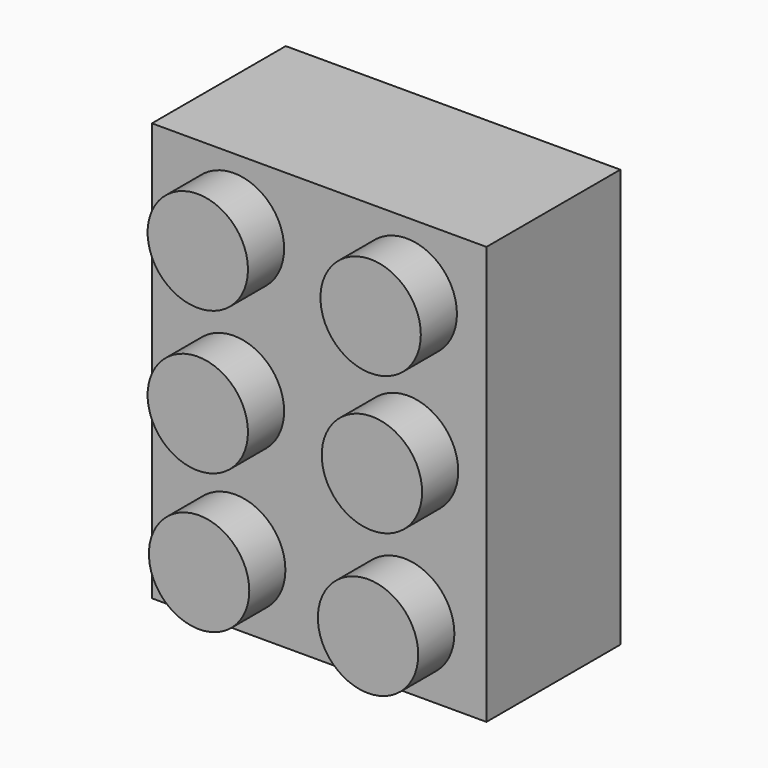
from build123d import *

# Parameters (mm, degrees)
F1_W     = 50.8
F1_H     = 25.4
F2_DEPTH = 63.5
F3_R     = 7.62
F4_DEPTH = 6.858


with BuildPart() as f2:
    # F1 (on Top) → F2 (new body)
    with BuildSketch(Plane.XY):
        with Locations((-25.4, 12.7)):
            Rectangle(F1_W, F1_H)
    extrude(amount=F2_DEPTH)

    # F3 (on face) → F4 (join)
    with BuildSketch(Plane.XZ):
        with Locations((-12.1043268591, 53.0788488686)):
            Circle(F3_R)
        with Locations((-38.3499599993, 53.2747134566)):
            Circle(F3_R)
        with Locations((-38.3499599993, 31.5339267254)):
            Circle(F3_R)
        with Locations((-11.9084650651, 32.1215167642)):
            Circle(F3_R)
        with Locations((-38.1540954113, 10.3807346895)):
            Circle(F3_R)
        with Locations((-12.4960532412, 10.1848719642)):
            Circle(F3_R)
    extrude(amount=F4_DEPTH)


solid = f2.part
